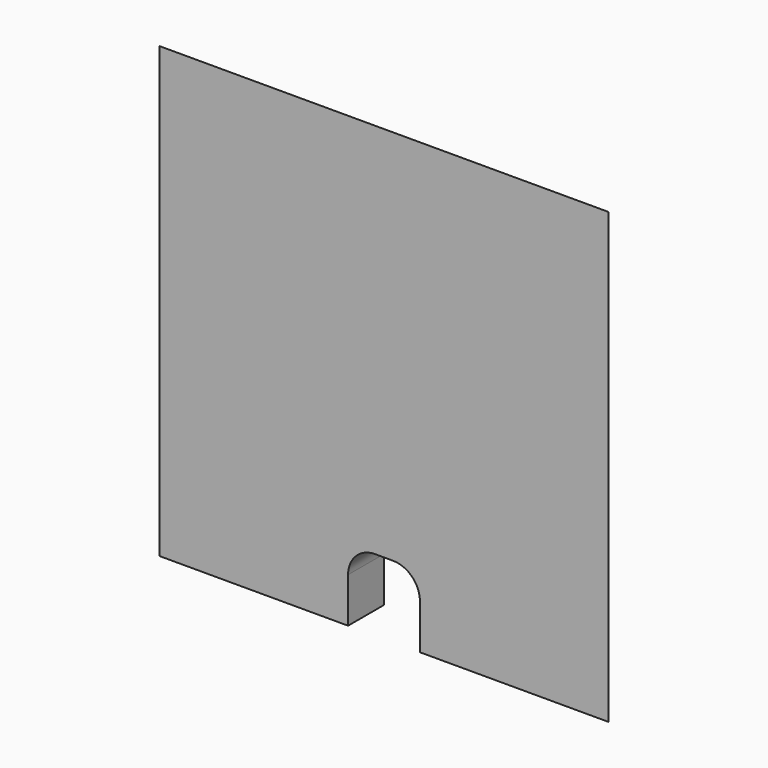
from build123d import *

# Parameters (mm, degrees)
F0_W     = 50
F0_H     = 50
F1_DEPTH = 5
F3_DEPTH = 50
F5_DEPTH = 50
F7_DEPTH = 25
F8_R     = 3


with BuildPart() as f1:
    # F0 (on Front) → F1 (new body)
    with BuildSketch(Plane.XZ):
        with Locations((-25, 25)):
            Rectangle(F0_W, F0_H)
    extrude(amount=F1_DEPTH)

    # F2 (on face) → F3 (cut)
    with BuildSketch(Plane.YZ):
        Polygon((0, 45), (0, 50), (-5, 50), align=None)
    extrude(amount=-F3_DEPTH, mode=Mode.SUBTRACT)

    # F4 (on face) → F5 (cut)
    with BuildSketch(Plane(origin=(0, 0, 0), x_dir=(1, 0, 0), z_dir=(0, 0, -1))):
        Polygon((-45, 0), (-50, 5), (-50, 0), align=None)
        Polygon((-5, 0), (0, 0), (0, 5), align=None)
    extrude(amount=-F5_DEPTH, mode=Mode.SUBTRACT)

    # F6 (on face) → F7 (cut)
    with BuildSketch(Plane(origin=(0, 0, 0), x_dir=(-1, 0, 0), z_dir=(0, 1, 0))):
        Polygon((21, 0), (25, 0), (29, 0), (29, 8), (21, 8), align=None)
    extrude(amount=-F7_DEPTH, mode=Mode.SUBTRACT)

    # F8
    f8_edges = [f1.edges().sort_by_distance(p)[0] for p in [
        (-21, -2.5, 8),
        (-29, -2.5, 8),
    ]]
    fillet(f8_edges, radius=F8_R)


solid = f1.part
